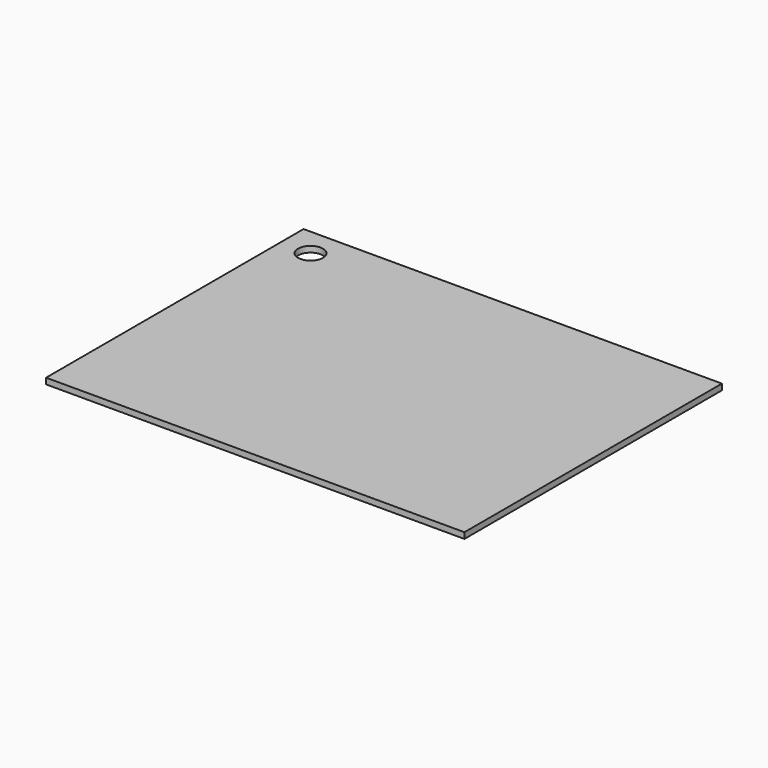
from build123d import *

# Parameters (mm, degrees)
F0_W     = 119.576615
F0_H     = 91.995966
F0_R     = 3.564959
F1_DEPTH = 1.7


with BuildPart() as f1:
    # F0 (on Top) → F1 (new body)
    with BuildSketch(Plane.XY):
        with Locations((2.993951, -0.635082)):
            Rectangle(F0_W, F0_H)
        with Locations((-48.266131, 37.197582)):
            Circle(F0_R, mode=Mode.SUBTRACT)
    extrude(amount=-F1_DEPTH)


solid = f1.part
